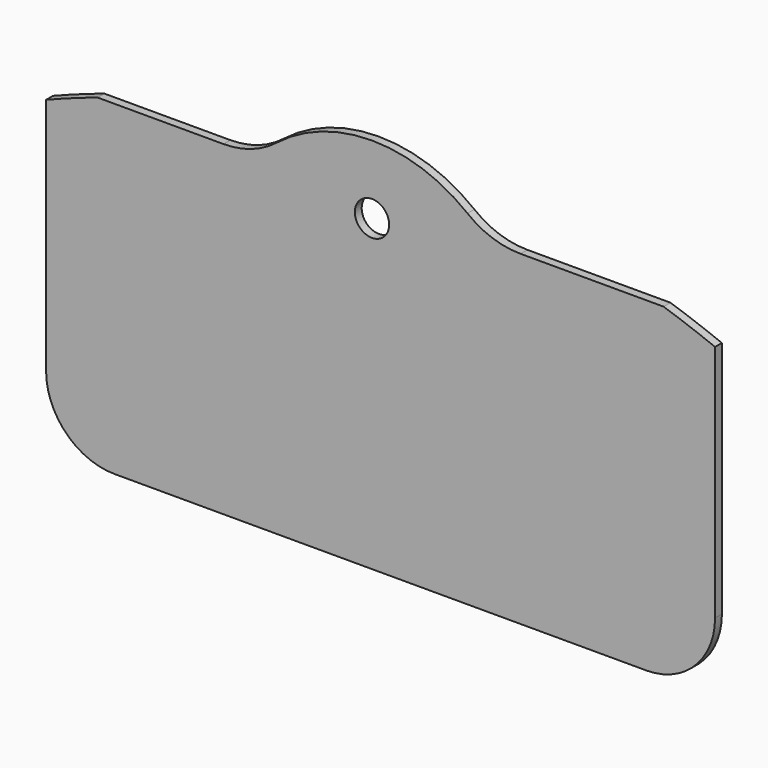
from build123d import *

# Parameters (mm, degrees)
F0_R     = 1
F1_DEPTH = 0.5


with BuildPart() as f1:
    # F0 (on Front) → F1 (new body)
    with BuildSketch(Plane.XZ):
        with BuildLine():
            ThreePointArc((0, 4), (1.171573, 1.171573), (4, 0))
            Line((4, 0), (35, 0))
            ThreePointArc((35, 0), (37.828427, 1.171573), (39, 4))
            Line((39, 4), (39, 17.908077))
            ThreePointArc((39, 17.908077), (37.508278, 18.476782), (36, 19))
            Line((36, 19), (27.660254, 19))
            ThreePointArc((27.660254, 19), (26.02362, 19.275444), (24.567306, 20.071429))
            ThreePointArc((24.567306, 20.071429), (19, 22), (13.432694, 20.071429))
            ThreePointArc((13.432694, 20.071429), (11.97638, 19.275444), (10.339746, 19))
            Line((10.339746, 19), (3, 19))
            ThreePointArc((3, 19), (1.491722, 18.476782), (0, 17.908077))
            Line((0, 17.908077), (0, 4))
        make_face()
        with Locations((19, 18)):
            Circle(F0_R, mode=Mode.SUBTRACT)
    extrude(amount=F1_DEPTH)


solid = f1.part
